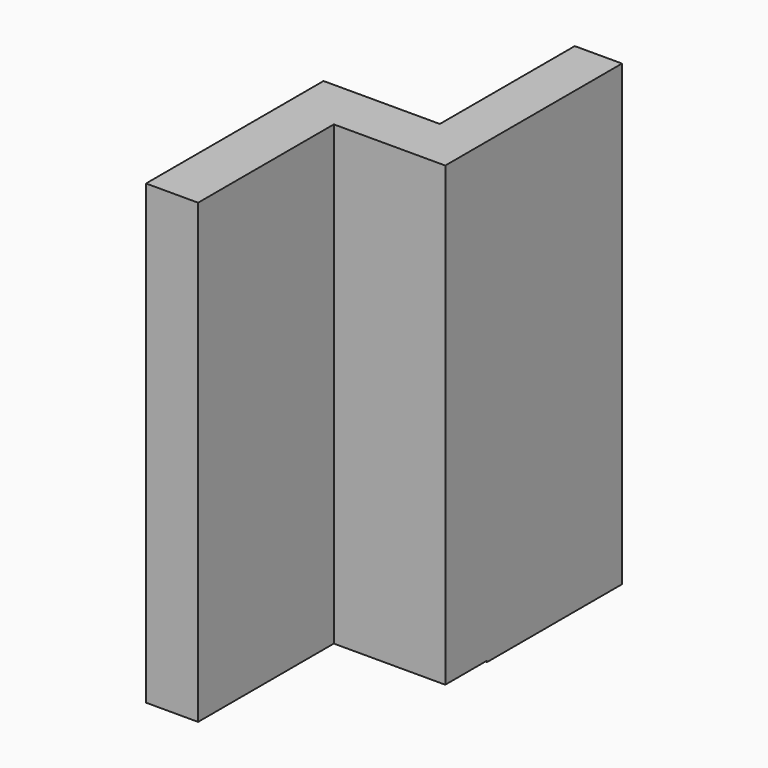
from build123d import *

# Parameters (mm, degrees)
F1_DEPTH = 10.922
F3_DEPTH = 13.462
F5_DEPTH = 9.906


with BuildPart() as f1:
    # F0 (on Right) → F1 (new body)
    with BuildSketch(Plane.YZ):
        Polygon((0, 55.701409), (-46.533596, 55.701409), (-46.533596, -40.143907), (0, -40.143907), (0, -26.808906), align=None)
        Polygon((17.918905, -26.808906), (0, -26.808906), (0, -40.143907), (0, -40.421717), (17.918905, -40.421717), align=None)
    extrude(amount=F1_DEPTH)

    # F2 (on face) → F3 (join)
    with BuildSketch(Plane.YZ.offset(10.922)):
        Polygon((0, 55.701409), (-10.959693, 55.701409), (-10.959693, -40.143907), (0, -40.143907), (0, -26.808906), align=None)
        Polygon((17.918905, -26.808906), (0, -26.808906), (0, -40.143907), (0, -40.421717), (17.918905, -40.421717), align=None)
    extrude(amount=F3_DEPTH)

    # F4 (on face) → F5 (join)
    with BuildSketch(Plane.YZ.offset(24.384)):
        Polygon((35.362165, 55.701409), (0, 55.701409), (0, -26.808906), (17.918905, -26.808906), (17.918905, -40.421717), (35.362165, -40.421717), align=None)
        Polygon((0, 55.701409), (-10.959693, 55.701409), (-10.959693, -40.143907), (0, -40.143907), (0, -40.421717), (17.918905, -40.421717), (17.918905, -26.808906), (0, -26.808906), align=None)
    extrude(amount=F5_DEPTH)


solid = f1.part
